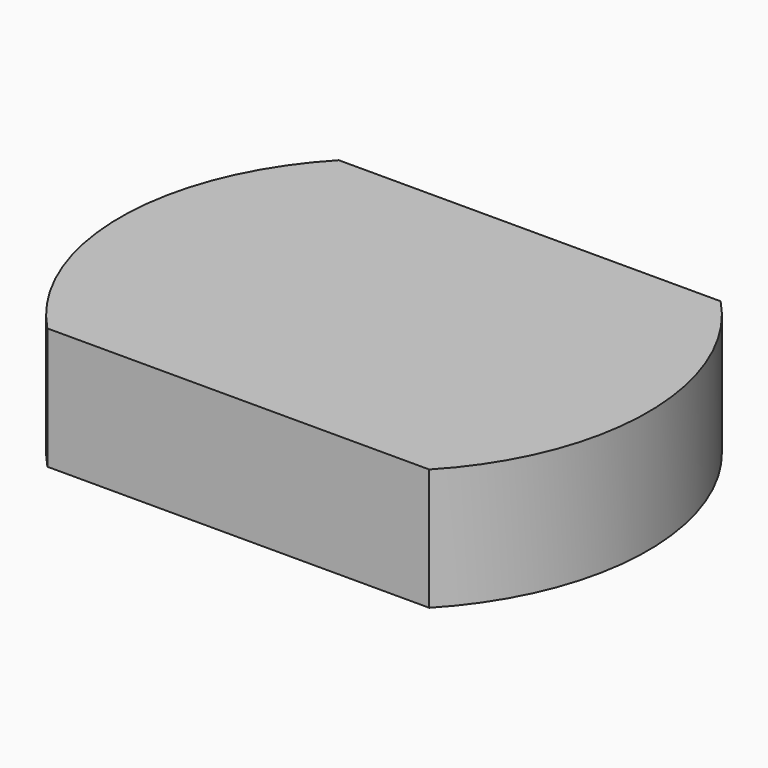
from build123d import *

# Parameters (mm, degrees)
F1_DEPTH = 10
F3_DEPTH = 15


with BuildPart() as f1:
    # F0 (on Top) → F1 (new body)
    with BuildSketch(Plane.XY):
        with BuildLine():
            Line((24.415891, 17.431704), (-24.415891, 17.431704))
            ThreePointArc((-24.415891, 17.431704), (-30, 0), (-24.415891, -17.431704))
            Line((-24.415891, -17.431704), (24.415891, -17.431704))
            ThreePointArc((24.415891, -17.431704), (30, 0), (24.415891, 17.431704))
        make_face()
    extrude(amount=F1_DEPTH)

    # F2 (on Top) → F3 (join)
    with BuildSketch(Plane.XY):
        with BuildLine():
            Line((-23.517412, -22.431704), (23.517412, -22.431704))
            ThreePointArc((23.517412, -22.431704), (32.5, 0), (23.517412, 22.431704))
            Line((23.517412, 22.431704), (-23.517412, 22.431704))
            ThreePointArc((-23.517412, 22.431704), (-32.5, 0), (-23.517412, -22.431704))
        make_face()
    extrude(amount=F3_DEPTH)


solid = f1.part
